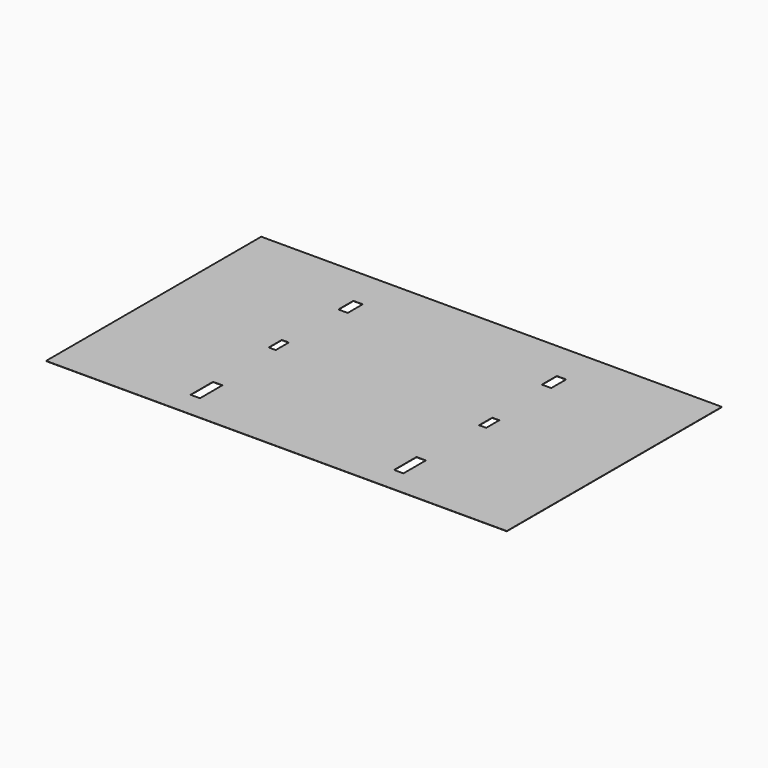
from build123d import *

# Parameters (mm, degrees)
F0_W     = 1970
F0_H     = 1150
F0_W_2   = 30
F0_H_2   = 70
F1_DEPTH = 1


with BuildPart() as f1:
    # F0 (on Top) → F1 (new body)
    with BuildSketch(Plane.XY):
        with Locations((985, 575)):
            Rectangle(F0_W, F0_H)
        Polygon((570, 110), (550, 110), (530, 110), (530, 230), (550, 230), (570, 230), align=None, mode=Mode.SUBTRACT)
        Polygon((1420, 230), (1440, 230), (1440, 110), (1420, 110), (1400, 110), (1400, 230), align=None, mode=Mode.SUBTRACT)
        with Locations((535, 575)):
            Rectangle(F0_W_2, F0_H_2, mode=Mode.SUBTRACT)
        Polygon((570, 900), (550, 900), (530, 900), (530, 980), (550, 980), (570, 980), align=None, mode=Mode.SUBTRACT)
        with Locations((1435, 575)):
            Rectangle(F0_W_2, F0_H_2, mode=Mode.SUBTRACT)
        Polygon((1440, 980), (1440, 900), (1420, 900), (1400, 900), (1400, 980), (1420, 980), align=None, mode=Mode.SUBTRACT)
    extrude(amount=F1_DEPTH)


solid = f1.part
